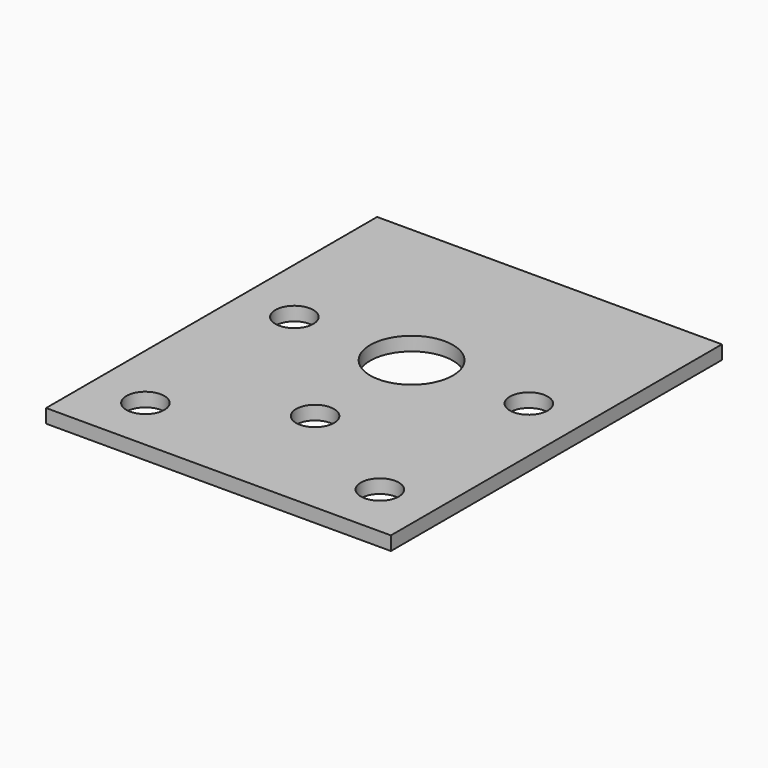
from build123d import *

# Parameters (mm, degrees)
F0_R     = 5.5
F0_R_2   = 12
F1_DEPTH = 4


with BuildPart() as f1:
    # F0 (on Top) → F1 (new body)
    with BuildSketch(Plane.XY):
        Polygon((50, 50), (0, 50), (-50, 50), (-50, -70), (0, -70), (50, -70), align=None)
        with Locations((-34, -54)):
            Circle(F0_R, mode=Mode.SUBTRACT)
        with Locations((34, -54)):
            Circle(F0_R, mode=Mode.SUBTRACT)
        with Locations((0, -35)):
            Circle(F0_R, mode=Mode.SUBTRACT)
        with Locations((-34, 0)):
            Circle(F0_R, mode=Mode.SUBTRACT)
        Circle(F0_R_2, mode=Mode.SUBTRACT)
        with Locations((34, 0)):
            Circle(F0_R, mode=Mode.SUBTRACT)
    extrude(amount=F1_DEPTH)


solid = f1.part
